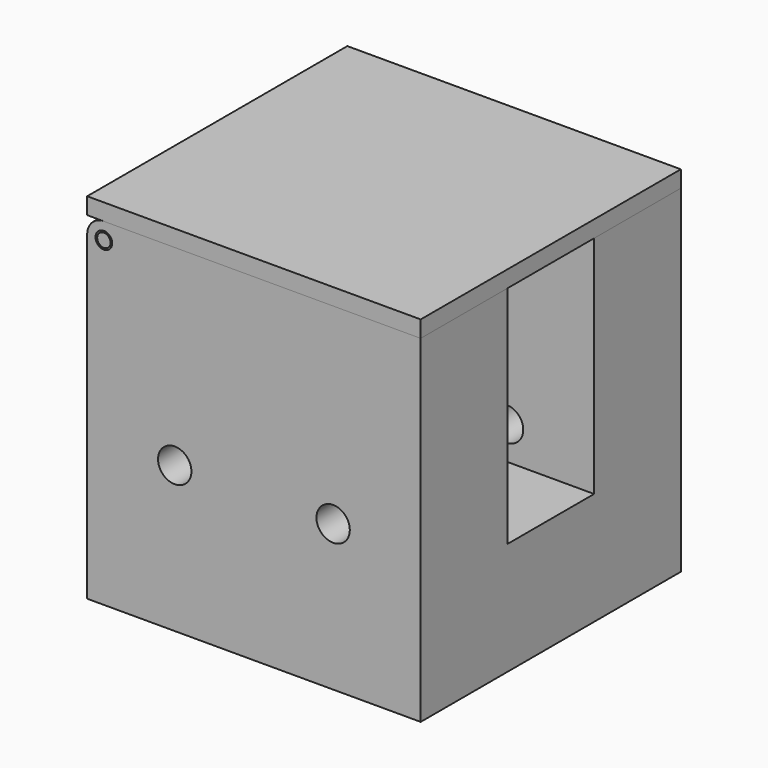
from build123d import *

# Parameters (mm, degrees)
CONE_PITCH_ANGLE       = 90
CYLINDER003_R          = 0.4
CYLINDER003_DEPTH      = 19.5
CYLINDER003_ROLL_ANGLE = -90
CYLINDER002_R          = 1.5
CYLINDER002_DEPTH      = 16.5
CYLINDER002_ROLL_ANGLE = -90
BOX002_W               = 20
BOX002_H               = 19.5
BOX002_DEPTH           = 1
CYLINDER001_R          = 0.5
CYLINDER001_DEPTH      = 19.5
CYLINDER001_ROLL_ANGLE = -90
CYLINDER005_R          = 1
CYLINDER005_DEPTH      = 19.5
CYLINDER005_ROLL_ANGLE = -90
CYLINDER004_R          = 1
CYLINDER004_DEPTH      = 19.5
CYLINDER004_ROLL_ANGLE = -90
BOX001_W               = 20
BOX001_H               = 6.5
BOX001_DEPTH           = 13.5
CYLINDER_R             = 2
CYLINDER_DEPTH         = 17.5
CYLINDER_ROLL_ANGLE    = -90
BOX_W                  = 20
BOX_H                  = 19.5
BOX_DEPTH              = 20.25
FILLET_R               = 1


with BuildPart() as cone:
    # Cone → Cone (revolve)
    with BuildSketch(Plane.XZ):
        Polygon((0, 0), (10, 0), (6, 30), (0, 30), align=None)
    revolve(axis=Axis((0, 0, 0), (0, 0, 1)))


with BuildPart() as cone_1:
    # Cone pitch: moved
    add(cone.part.rotate(Axis((0, 0, 0), (0, 1, 0)), CONE_PITCH_ANGLE))


with BuildPart() as cone_2:
    # Cone placement: moved
    add(cone_1.part.moved(Location((0, 3, 12))))


with BuildPart() as lid_hinge_pin_tapered:
    # Cylinder003 → Cylinder003 (new body)
    with BuildSketch(Plane.XY):
        Circle(CYLINDER003_R)
    extrude(amount=CYLINDER003_DEPTH)


with BuildPart() as lid_hinge_pin_tapered_1:
    # Cylinder003 roll: moved
    add(lid_hinge_pin_tapered.part.rotate(Axis((0, 0, 0), (1, 0, 0)), CYLINDER003_ROLL_ANGLE))


with BuildPart() as lid_hinge_pin_tapered_2:
    # Cylinder003 placement: moved
    add(lid_hinge_pin_tapered_1.part.moved(Location((1, -6.5, 12.5))))

    # Common: intersect Cone
    add(cone_2.part, mode=Mode.INTERSECT)


with BuildPart() as lid_hinge:
    # Cylinder002 → Cylinder002 (new body)
    with BuildSketch(Plane.XY):
        Circle(CYLINDER002_R)
    extrude(amount=CYLINDER002_DEPTH)


with BuildPart() as lid_hinge_1:
    # Cylinder002 roll: moved
    add(lid_hinge.part.rotate(Axis((0, 0, 0), (1, 0, 0)), CYLINDER002_ROLL_ANGLE))


with BuildPart() as lid_hinge_2:
    # Cylinder002 placement: moved
    add(lid_hinge_1.part.moved(Location((1, -5, 12.5))))

    # Fusion003: union lid_hinge_pin_tapered
    add(lid_hinge_pin_tapered_2.part)


with BuildPart() as lid:
    # Box002 → Box002 (new body)
    with BuildSketch(Plane(origin=(0, -6.5, 13.5), x_dir=(1, 0, 0), z_dir=(0, 0, 1))):
        with Locations((10, 9.75)):
            Rectangle(BOX002_W, BOX002_H)
    extrude(amount=BOX002_DEPTH)

    # Fusion: union lid_hinge
    add(lid_hinge_2.part)


with BuildPart() as hinge_pin_hole:
    # Cylinder001 → Cylinder001 (new body)
    with BuildSketch(Plane.XY):
        Circle(CYLINDER001_R)
    extrude(amount=CYLINDER001_DEPTH)


with BuildPart() as hinge_pin_hole_1:
    # Cylinder001 roll: moved
    add(hinge_pin_hole.part.rotate(Axis((0, 0, 0), (1, 0, 0)), CYLINDER001_ROLL_ANGLE))


with BuildPart() as hinge_pin_hole_2:
    # Cylinder001 placement: moved
    add(hinge_pin_hole_1.part.moved(Location((1, -6.5, 12.5))))


with BuildPart() as cylinder005:
    # Cylinder005 → Cylinder005 (new body)
    with BuildSketch(Plane.XY):
        Circle(CYLINDER005_R)
    extrude(amount=CYLINDER005_DEPTH)


with BuildPart() as cylinder005_1:
    # Cylinder005 roll: moved
    add(cylinder005.part.rotate(Axis((0, 0, 0), (1, 0, 0)), CYLINDER005_ROLL_ANGLE))


with BuildPart() as cylinder005_2:
    # Cylinder005 placement: moved
    add(cylinder005_1.part.moved(Location((14.75, -6.5, 2))))


with BuildPart() as cylinder004:
    # Cylinder004 → Cylinder004 (new body)
    with BuildSketch(Plane.XY):
        Circle(CYLINDER004_R)
    extrude(amount=CYLINDER004_DEPTH)


with BuildPart() as cylinder004_1:
    # Cylinder004 roll: moved
    add(cylinder004.part.rotate(Axis((0, 0, 0), (1, 0, 0)), CYLINDER004_ROLL_ANGLE))


with BuildPart() as cylinder004_2:
    # Cylinder004 placement: moved
    add(cylinder004_1.part.moved(Location((5.25, -6.5, 2))))


with BuildPart() as switch_with_mounting_hole_cutouts:
    # Box001 → Box001 (new body)
    with BuildSketch(Plane.XY):
        with Locations((10, 3.25)):
            Rectangle(BOX001_W, BOX001_H)
    extrude(amount=BOX001_DEPTH)

    # Fusion001: union Cylinder004
    add(cylinder004_2.part)

    # Fusion002: union Cylinder005
    add(cylinder005_2.part)


with BuildPart() as main_block_hinge_notch:
    # Cylinder → Cylinder (new body)
    with BuildSketch(Plane.XY):
        Circle(CYLINDER_R)
    extrude(amount=CYLINDER_DEPTH)


with BuildPart() as main_block_hinge_notch_1:
    # Cylinder roll: moved
    add(main_block_hinge_notch.part.rotate(Axis((0, 0, 0), (1, 0, 0)), CYLINDER_ROLL_ANGLE))


with BuildPart() as main_block_hinge_notch_2:
    # Cylinder placement: moved
    add(main_block_hinge_notch_1.part.moved(Location((1, -5.5, 12.5))))


with BuildPart() as fillet_body:
    # Box → Box (new body)
    with BuildSketch(Plane(origin=(0, -6.5, -6.75), x_dir=(1, 0, 0), z_dir=(0, 0, 1))):
        with Locations((10, 9.75)):
            Rectangle(BOX_W, BOX_H)
    extrude(amount=BOX_DEPTH)

    # Cut: cut main_block_hinge_notch
    add(main_block_hinge_notch_2.part, mode=Mode.SUBTRACT)

    # Cut001: cut Switch_with_mounting_hole_cutouts
    add(switch_with_mounting_hole_cutouts.part, mode=Mode.SUBTRACT)

    # Cut002: cut Hinge_pin_hole
    add(hinge_pin_hole_2.part, mode=Mode.SUBTRACT)

    # Fillet
    fillet_edges = [fillet_body.edges().sort_by_distance(p)[0] for p in [
        (0, -6, 13.5),
        (0, 12.5, 13.5),
    ]]
    fillet(fillet_edges, radius=FILLET_R)


solid = Compound([lid.part, fillet_body.part])
